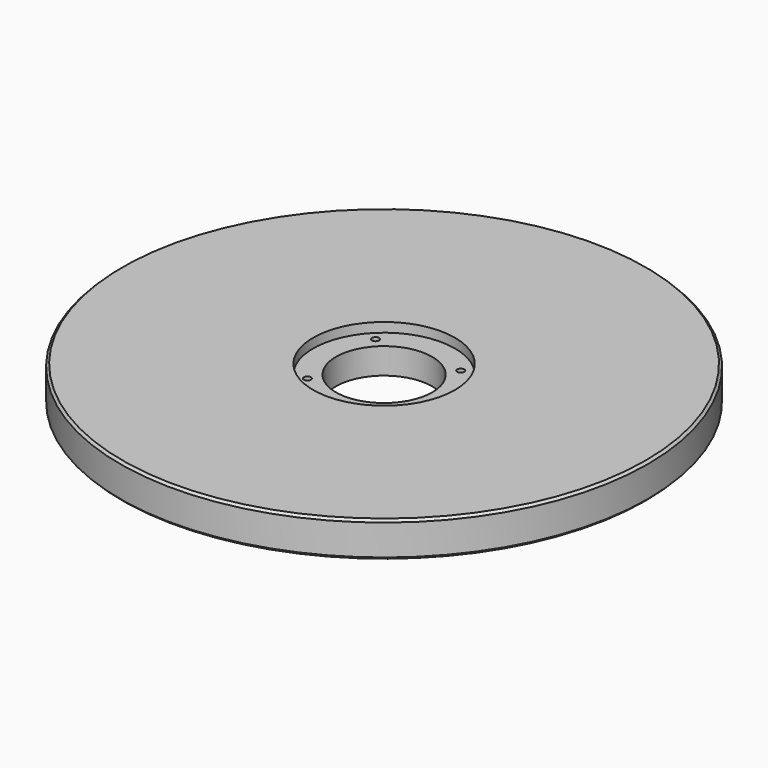
from build123d import *

# Parameters (mm, degrees)
F0_R     = 223.5
F1_DEPTH = 30
F2_SIZE  = 2
F3_R     = 40.75
F4_DEPTH = 30
F3_R_2   = 60
F3_R_3   = 3
F5_DEPTH = 8
F6_DEPTH = 30.001


with BuildPart() as f1:
    # F0 (on Top) → F1 (new body)
    with BuildSketch(Plane.XY):
        Circle(F0_R)
    extrude(amount=F1_DEPTH)

    # F2
    f2_edges = [f1.edges().sort_by_distance(p)[0] for p in [
        (-223.5, 0, 30),
        (-223.5, 0, 0),
    ]]
    chamfer(f2_edges, length=F2_SIZE)

    # F3 (on face) → F4 (cut)
    with BuildSketch(Plane.XY.offset(30)):
        Circle(F3_R)
    extrude(amount=-F4_DEPTH, mode=Mode.SUBTRACT)

    # F3 (on face) → F5 (cut)
    with BuildSketch(Plane.XY.offset(30)):
        Circle(F3_R_2)
        with Locations((-36.062446, -36.062446)):
            Circle(F3_R_3, mode=Mode.SUBTRACT)
        Circle(F3_R, mode=Mode.SUBTRACT)
        with Locations((36.062446, -36.062446)):
            Circle(F3_R_3, mode=Mode.SUBTRACT)
        with Locations((-36.062446, 36.062446)):
            Circle(F3_R_3, mode=Mode.SUBTRACT)
        with Locations((36.062446, 36.062446)):
            Circle(F3_R_3, mode=Mode.SUBTRACT)
        with Locations((-36.062446, 36.062446)):
            Circle(F3_R_3)
        with Locations((36.062446, 36.062446)):
            Circle(F3_R_3)
        with Locations((36.062446, -36.062446)):
            Circle(F3_R_3)
        with Locations((-36.062446, -36.062446)):
            Circle(F3_R_3)
    extrude(amount=-F5_DEPTH, mode=Mode.SUBTRACT)

    # F3 (on face) → F6 (cut, through all)
    with BuildSketch(Plane.XY.offset(30)):
        with Locations((-36.062446, 36.062446)):
            Circle(F3_R_3)
        with Locations((36.062446, 36.062446)):
            Circle(F3_R_3)
        with Locations((36.062446, -36.062446)):
            Circle(F3_R_3)
        with Locations((-36.062446, -36.062446)):
            Circle(F3_R_3)
    extrude(amount=-F6_DEPTH, mode=Mode.SUBTRACT)


solid = f1.part
